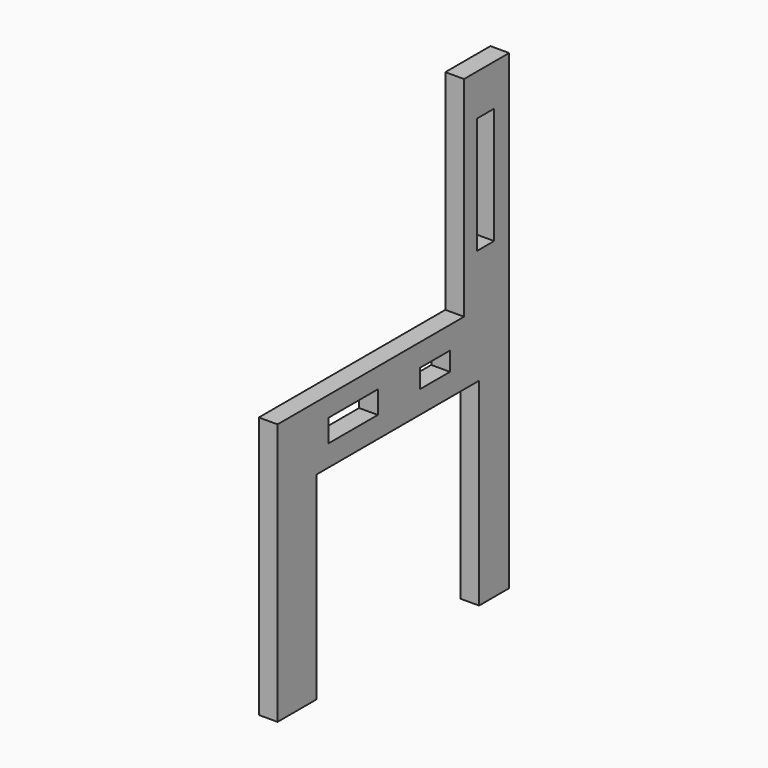
from build123d import *

# Parameters (mm, degrees)
F0_W     = 14.256329
F0_H     = 5.237018
F0_W_2   = 8.728366
F0_H_2   = 4.364182
F0_W_3   = 4.946071
F0_H_3   = 27.057927
F1_DEPTH = 4.3434


with BuildPart() as f1:
    # F0 (on Right) → F1 (new body)
    with BuildSketch(Plane.YZ):
        Polygon((22.83922, -60.81732), (22.83922, 48.578169), (9.746672, 48.578169), (9.746672, 0), (-44.369183, 0), (-44.369183, -60.81732), (-33.022311, -60.81732), (-33.022311, -14.847939), (14.110854, -14.847939), (14.110854, -60.81732), align=None)
        with Locations((-22.4028, -7.283357)):
            Rectangle(F0_W, F0_H, mode=Mode.SUBTRACT)
        with Locations((1.309254, -7.428829)):
            Rectangle(F0_W_2, F0_H_2, mode=Mode.SUBTRACT)
        with Locations((16.002, 25.448007)):
            Rectangle(F0_W_3, F0_H_3, mode=Mode.SUBTRACT)
    extrude(amount=F1_DEPTH)


solid = f1.part
